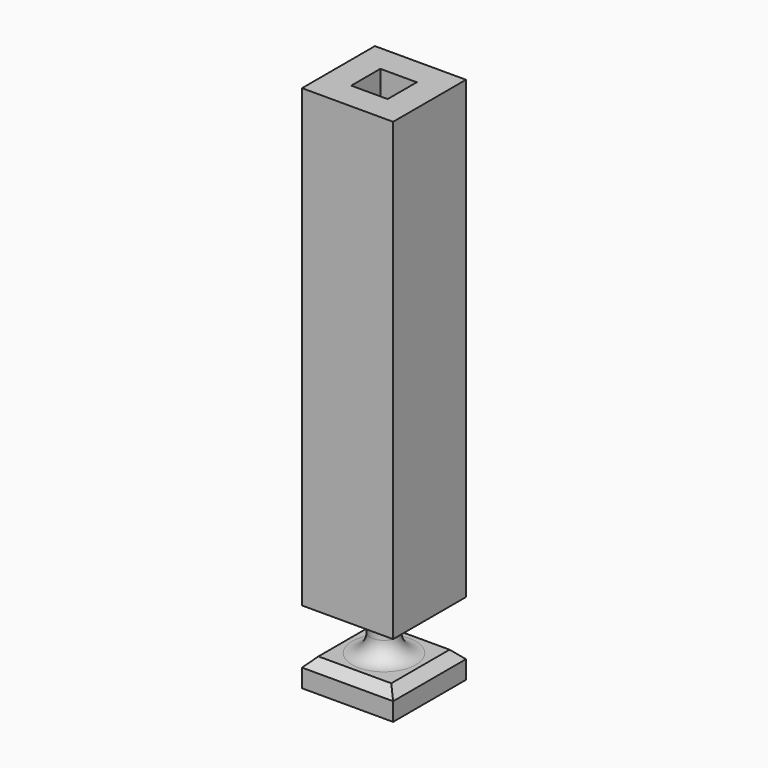
from build123d import *

# Parameters (mm, degrees)
F0_W     = 254
F0_H     = 254
F0_R     = 38.1
F1_DEPTH = 76.2
F2_DEPTH = 203.2
F3_W     = 254
F3_H     = 254
F3_R     = 38.1
F4_DEPTH = 1270
F6_DEPTH = 1143
F7_R     = 50.8
F8_SIZE  = 25.4


with BuildPart() as f1:
    # F0 (on Top) → F1 (new body)
    with BuildSketch(Plane.XY):
        Rectangle(F0_W, F0_H)
        Circle(F0_R, mode=Mode.SUBTRACT)
        Circle(F0_R)
    extrude(amount=F1_DEPTH)

    # F0 (on Top) → F2 (join)
    with BuildSketch(Plane.XY):
        Circle(F0_R)
    extrude(amount=F2_DEPTH)

    # F3 (on face) → F4 (join)
    with BuildSketch(Plane.XY.offset(203.2)):
        Rectangle(F3_W, F3_H)
        Circle(F3_R)
    extrude(amount=F4_DEPTH)

    # F5 (on face) → F6 (cut)
    with BuildSketch(Plane.XY.offset(1473.2)):
        with BuildLine():
            Line((50.8, 0), (50.8, 50.8))
            Line((50.8, 50.8), (0, 50.8))
            ThreePointArc((0, 50.8), (35.921025, 35.921024), (50.8, 0))
        make_face()
        with BuildLine():
            Line((50.8, -50.8), (50.8, 0))
            ThreePointArc((50.8, 0), (35.921024, -35.921024), (0, -50.8))
            Line((0, -50.8), (50.8, -50.8))
        make_face()
        with BuildLine():
            ThreePointArc((0, -50.8), (-35.921024, -35.921025), (-50.8, 0))
            Line((-50.8, 0), (-50.8, -50.8))
            Line((-50.8, -50.8), (0, -50.8))
        make_face()
        with BuildLine():
            ThreePointArc((-50.8, 0), (-35.921025, 35.921024), (0, 50.8))
            Line((0, 50.8), (-50.8, 50.8))
            Line((-50.8, 50.8), (-50.8, 0))
        make_face()
        with BuildLine():
            ThreePointArc((50.8, 0), (35.921025, 35.921024), (0, 50.8))
            ThreePointArc((0, 50.8), (-35.921025, 35.921024), (-50.8, 0))
            ThreePointArc((-50.8, 0), (-35.921024, -35.921025), (0, -50.8))
            ThreePointArc((0, -50.8), (35.921024, -35.921024), (50.8, 0))
        make_face()
    extrude(amount=-F6_DEPTH, mode=Mode.SUBTRACT)

    # F7
    f7_edges = [f1.edges().sort_by_distance(p)[0] for p in [
        (-38.1, 0, 76.2),
        (-38.1, 0, 203.2),
    ]]
    fillet(f7_edges, radius=F7_R)

    # F8
    f8_edges = [f1.edges().sort_by_distance(p)[0] for p in [
        (0, -127, 76.2),
        (127, 0, 76.2),
        (0, 127, 76.2),
        (-127, 0, 76.2),
    ]]
    chamfer(f8_edges, length=F8_SIZE)


solid = f1.part
